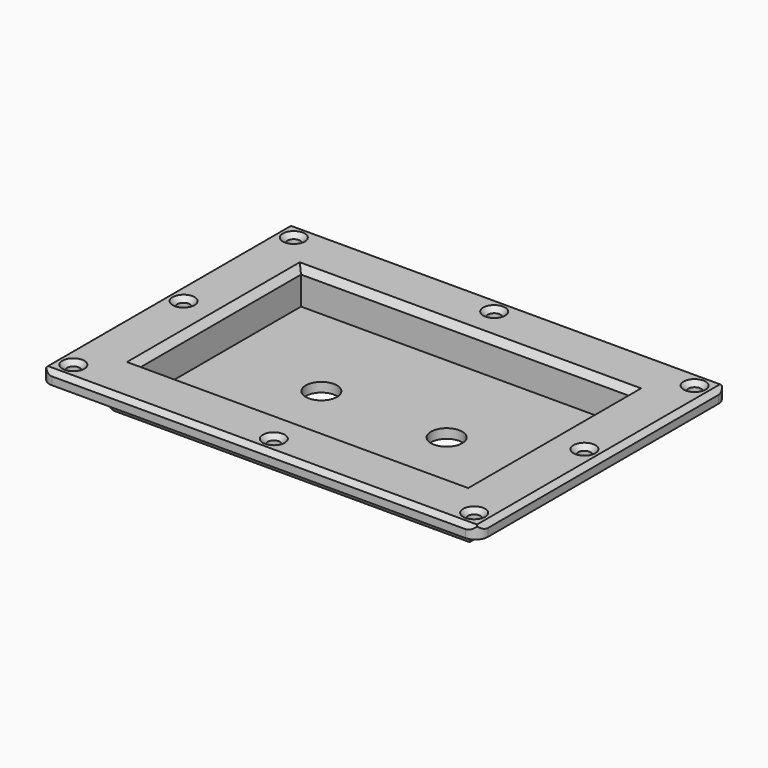
from build123d import *

# Parameters (mm, degrees)
CYLINDER009_R     = 5
CYLINDER009_DEPTH = 20
CYLINDER008_R     = 2
CYLINDER008_DEPTH = 20
CYLINDER007_R     = 2
CYLINDER007_DEPTH = 20
CYLINDER006_R     = 5
CYLINDER006_DEPTH = 20
BOX002_W          = 105
BOX002_H          = 65
BOX002_DEPTH      = 20
BOX001_W          = 115
BOX001_H          = 75
BOX001_DEPTH      = 10
FILLET_R          = 2
CYLINDER003_R     = 2
CYLINDER003_DEPTH = 10
CYLINDER002_R     = 2
CYLINDER002_DEPTH = 10
CYLINDER004_R     = 2
CYLINDER004_DEPTH = 10
CYLINDER005_R     = 2
CYLINDER005_DEPTH = 10
CYLINDER001_R     = 2
CYLINDER001_DEPTH = 10
CYLINDER_R        = 2
CYLINDER_DEPTH    = 10
BOX_W             = 140
BOX_H             = 100
BOX_DEPTH         = 4
CHAMFER_SIZE      = 1.5
CHAMFER001_SIZE   = 2
FILLET001_R       = 4
FILLET002_R       = 4
CHAMFER002_SIZE   = 1.5


with BuildPart() as cylinder009:
    # Cylinder009 → Cylinder009 (new body)
    with BuildSketch(Plane(origin=(90, 50, -5), x_dir=(1, 0, 0), z_dir=(0, 0, 1))):
        Circle(CYLINDER009_R)
    extrude(amount=CYLINDER009_DEPTH)


with BuildPart() as cylinder008:
    # Cylinder008 → Cylinder008 (new body)
    with BuildSketch(Plane(origin=(70, 6, 0), x_dir=(1, 0, 0), z_dir=(0, 0, 1))):
        Circle(CYLINDER008_R)
    extrude(amount=CYLINDER008_DEPTH)


with BuildPart() as cylinder007:
    # Cylinder007 → Cylinder007 (new body)
    with BuildSketch(Plane(origin=(70, 94, 0), x_dir=(1, 0, 0), z_dir=(0, 0, 1))):
        Circle(CYLINDER007_R)
    extrude(amount=CYLINDER007_DEPTH)


with BuildPart() as cylinder006:
    # Cylinder006 → Cylinder006 (new body)
    with BuildSketch(Plane(origin=(50, 50, -5), x_dir=(1, 0, 0), z_dir=(0, 0, 1))):
        Circle(CYLINDER006_R)
    extrude(amount=CYLINDER006_DEPTH)


with BuildPart() as cube002:
    # Box002 → Box002 (new body)
    with BuildSketch(Plane(origin=(17.5, 17.5, 3), x_dir=(1, 0, 0), z_dir=(0, 0, 1))):
        with Locations((52.5, 32.5)):
            Rectangle(BOX002_W, BOX002_H)
    extrude(amount=BOX002_DEPTH)


with BuildPart() as fillet_body:
    # Box001 → Box001 (new body)
    with BuildSketch(Plane(origin=(12.5, 12.5, 0), x_dir=(1, 0, 0), z_dir=(0, 0, 1))):
        with Locations((57.5, 37.5)):
            Rectangle(BOX001_W, BOX001_H)
    extrude(amount=BOX001_DEPTH)

    # Fillet
    fillet_edges = [fillet_body.edges().sort_by_distance(p)[0] for p in [
        (12.5, 50, 0),
        (127.5, 50, 0),
        (70, 12.5, 0),
        (70, 87.5, 0),
    ]]
    fillet(fillet_edges, radius=FILLET_R)


with BuildPart() as cylinder003:
    # Cylinder003 → Cylinder003 (new body)
    with BuildSketch(Plane(origin=(6, 94, 0), x_dir=(1, 0, 0), z_dir=(0, 0, 1))):
        Circle(CYLINDER003_R)
    extrude(amount=CYLINDER003_DEPTH)


with BuildPart() as cylinder002:
    # Cylinder002 → Cylinder002 (new body)
    with BuildSketch(Plane(origin=(6, 50, 0), x_dir=(1, 0, 0), z_dir=(0, 0, 1))):
        Circle(CYLINDER002_R)
    extrude(amount=CYLINDER002_DEPTH)


with BuildPart() as cylinder004:
    # Cylinder004 → Cylinder004 (new body)
    with BuildSketch(Plane(origin=(6, 6, 0), x_dir=(1, 0, 0), z_dir=(0, 0, 1))):
        Circle(CYLINDER004_R)
    extrude(amount=CYLINDER004_DEPTH)


with BuildPart() as cylinder005:
    # Cylinder005 → Cylinder005 (new body)
    with BuildSketch(Plane(origin=(134, 94, 0), x_dir=(1, 0, 0), z_dir=(0, 0, 1))):
        Circle(CYLINDER005_R)
    extrude(amount=CYLINDER005_DEPTH)


with BuildPart() as cylinder001:
    # Cylinder001 → Cylinder001 (new body)
    with BuildSketch(Plane(origin=(134, 50, 0), x_dir=(1, 0, 0), z_dir=(0, 0, 1))):
        Circle(CYLINDER001_R)
    extrude(amount=CYLINDER001_DEPTH)


with BuildPart() as cylinder:
    # Cylinder → Cylinder (new body)
    with BuildSketch(Plane(origin=(134, 6, 0), x_dir=(1, 0, 0), z_dir=(0, 0, 1))):
        Circle(CYLINDER_R)
    extrude(amount=CYLINDER_DEPTH)


with BuildPart() as cut010:
    # Box → Box (new body)
    with BuildSketch(Plane.XY):
        with Locations((70, 50)):
            Rectangle(BOX_W, BOX_H)
    extrude(amount=BOX_DEPTH)

    # Cut: cut Cylinder
    add(cylinder.part, mode=Mode.SUBTRACT)

    # Cut001: cut Cylinder001
    add(cylinder001.part, mode=Mode.SUBTRACT)

    # Cut002: cut Cylinder005
    add(cylinder005.part, mode=Mode.SUBTRACT)

    # Cut003: cut Cylinder004
    add(cylinder004.part, mode=Mode.SUBTRACT)

    # Cut004: cut Cylinder002
    add(cylinder002.part, mode=Mode.SUBTRACT)

    # Cut005: cut Cylinder003
    add(cylinder003.part, mode=Mode.SUBTRACT)


with BuildPart() as cut010_1:
    # Cut005 placement: moved
    add(cut010.part.moved(Location((0, 0, 10))))

    # Chamfer
    chamfer_edges = [cut010_1.edges().sort_by_distance(p)[0] for p in [
        (4, 50, 14),
        (4, 6, 14),
        (0, 50, 14),
        (70, 100, 14),
        (70, 0, 14),
        (140, 50, 14),
        (4, 94, 14),
        (132, 94, 14),
        (132, 50, 14),
        (132, 6, 14),
    ]]
    chamfer(chamfer_edges, length=CHAMFER_SIZE)

    # Fusion: union Fillet body
    add(fillet_body.part)

    # Cut006: cut Cube002
    add(cube002.part, mode=Mode.SUBTRACT)

    # Cut007: cut Cylinder006
    add(cylinder006.part, mode=Mode.SUBTRACT)

    # Chamfer001
    chamfer001_edges = [cut010_1.edges().sort_by_distance(p)[0] for p in [
        (122.5, 50, 14),
        (70, 17.5, 14),
        (17.5, 50, 14),
        (70, 82.5, 14),
    ]]
    chamfer(chamfer001_edges, length=CHAMFER001_SIZE)

    # Fillet001
    fillet001_edges = [cut010_1.edges().sort_by_distance(p)[0] for p in [
        (140, 0, 11.25),
        (140, 100, 11.25),
    ]]
    fillet(fillet001_edges, radius=FILLET001_R)

    # Fillet002
    fillet002_edges = [cut010_1.edges().sort_by_distance(p)[0] for p in [
        (0, 0, 11.25),
        (0, 100, 11.25),
    ]]
    fillet(fillet002_edges, radius=FILLET002_R)

    # Cut008: cut Cylinder007
    add(cylinder007.part, mode=Mode.SUBTRACT)

    # Cut009: cut Cylinder008
    add(cylinder008.part, mode=Mode.SUBTRACT)

    # Chamfer002
    chamfer002_edges = [cut010_1.edges().sort_by_distance(p)[0] for p in [
        (68, 6, 14),
        (68, 94, 14),
    ]]
    chamfer(chamfer002_edges, length=CHAMFER002_SIZE)

    # Cut010: cut Cylinder009
    add(cylinder009.part, mode=Mode.SUBTRACT)


solid = cut010_1.part
